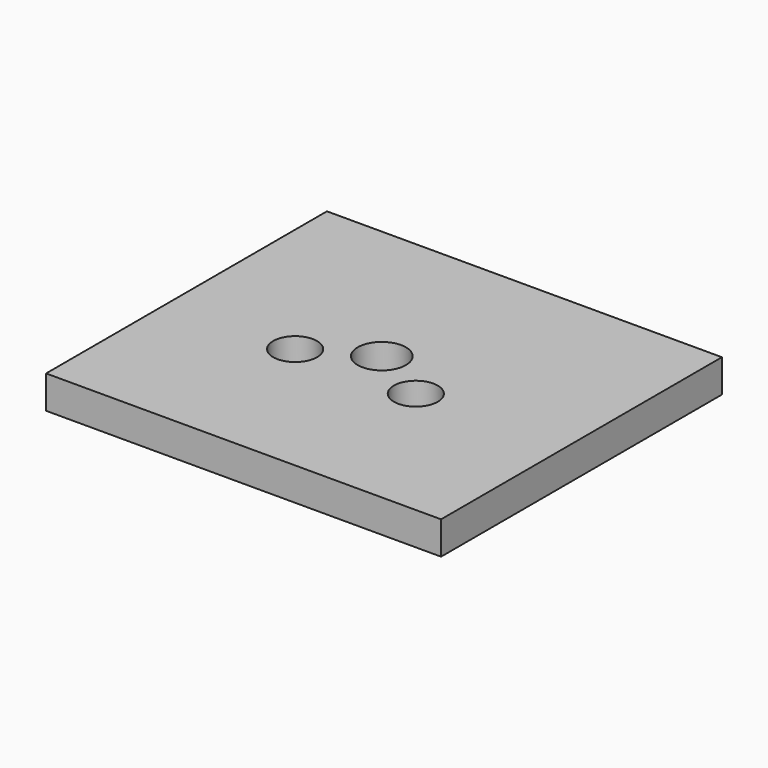
from build123d import *

# Parameters (mm, degrees)
CYLINDER008_R     = 2.2
CYLINDER008_DEPTH = 10
CYLINDER007_R     = 2
CYLINDER007_DEPTH = 10
CYLINDER006_R     = 2
CYLINDER006_DEPTH = 10
BOX004_W          = 36
BOX004_H          = 32
BOX004_DEPTH      = 3


with BuildPart() as cylinder008:
    # Cylinder008 → Cylinder008 (new body)
    with BuildSketch(Plane(origin=(17, 17, 0), x_dir=(1, 0, 0), z_dir=(0, 0, 1))):
        Circle(CYLINDER008_R)
    extrude(amount=CYLINDER008_DEPTH)


with BuildPart() as cylinder007:
    # Cylinder007 → Cylinder007 (new body)
    with BuildSketch(Plane(origin=(22.5, 14, 0), x_dir=(1, 0, 0), z_dir=(0, 0, 1))):
        Circle(CYLINDER007_R)
    extrude(amount=CYLINDER007_DEPTH)


with BuildPart() as cylinder006:
    # Cylinder006 → Cylinder006 (new body)
    with BuildSketch(Plane(origin=(11.5, 14, 0), x_dir=(1, 0, 0), z_dir=(0, 0, 1))):
        Circle(CYLINDER006_R)
    extrude(amount=CYLINDER006_DEPTH)


with BuildPart() as manual_valve_plate:
    # Box004 → Box004 (new body)
    with BuildSketch(Plane.XY):
        with Locations((18, 16)):
            Rectangle(BOX004_W, BOX004_H)
    extrude(amount=BOX004_DEPTH)

    # Cut: cut Cylinder006
    add(cylinder006.part, mode=Mode.SUBTRACT)

    # Cut007: cut Cylinder007
    add(cylinder007.part, mode=Mode.SUBTRACT)

    # Cut008: cut Cylinder008
    add(cylinder008.part, mode=Mode.SUBTRACT)


solid = manual_valve_plate.part
